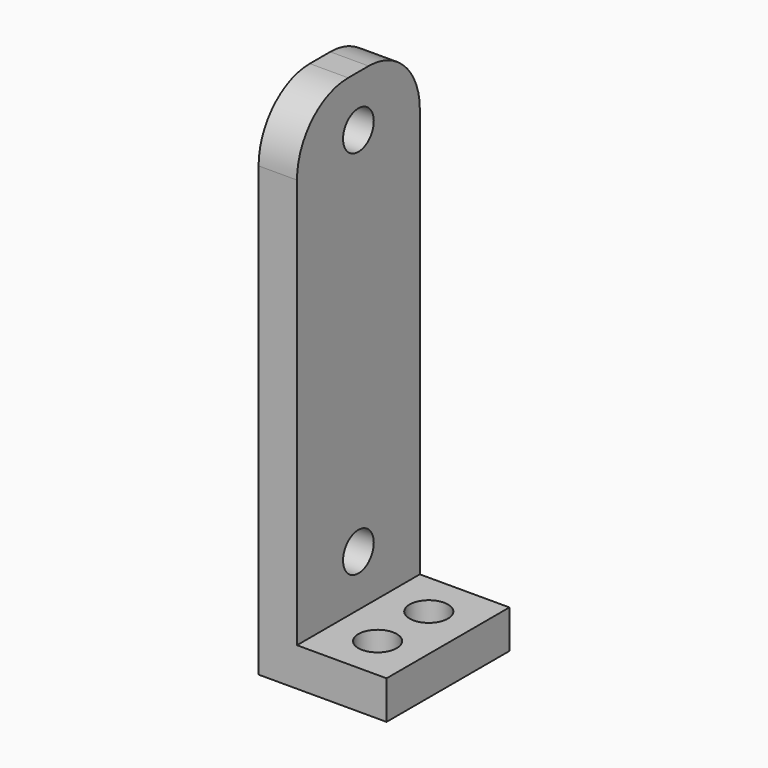
from build123d import *

# Parameters (mm, degrees)
CYLINDER003_R           = 1.5
CYLINDER003_DEPTH       = 10
CYLINDER003_PITCH_ANGLE = 90
CYLINDER002_R           = 1.5
CYLINDER002_DEPTH       = 10
CYLINDER002_PITCH_ANGLE = 90
BOX001_W                = 3
BOX001_H                = 12
BOX001_DEPTH            = 40
FILLET_R                = 5
CYLINDER001_R           = 1.5
CYLINDER001_DEPTH       = 10
CYLINDER_R              = 1.5
CYLINDER_DEPTH          = 10
BOX_W                   = 10
BOX_H                   = 12
BOX_DEPTH               = 3


with BuildPart() as cylinder003:
    # Cylinder003 → Cylinder003 (new body)
    with BuildSketch(Plane.XY):
        Circle(CYLINDER003_R)
    extrude(amount=CYLINDER003_DEPTH)


with BuildPart() as cylinder003_1:
    # Cylinder003 pitch: moved
    add(cylinder003.part.rotate(Axis((0, 0, 0), (0, 1, 0)), CYLINDER003_PITCH_ANGLE))


with BuildPart() as cylinder003_2:
    # Cylinder003 placement: moved
    add(cylinder003_1.part.moved(Location((0, 6, 36))))


with BuildPart() as cylinder002:
    # Cylinder002 → Cylinder002 (new body)
    with BuildSketch(Plane.XY):
        Circle(CYLINDER002_R)
    extrude(amount=CYLINDER002_DEPTH)


with BuildPart() as cylinder002_1:
    # Cylinder002 pitch: moved
    add(cylinder002.part.rotate(Axis((0, 0, 0), (0, 1, 0)), CYLINDER002_PITCH_ANGLE))


with BuildPart() as cylinder002_2:
    # Cylinder002 placement: moved
    add(cylinder002_1.part.moved(Location((0, 6, 7))))


with BuildPart() as cut003:
    # Box001 → Box001 (new body)
    with BuildSketch(Plane.XY):
        with Locations((1.5, 6)):
            Rectangle(BOX001_W, BOX001_H)
    extrude(amount=BOX001_DEPTH)

    # Fillet
    fillet_edges = [cut003.edges().sort_by_distance(p)[0] for p in [
        (1.5, 0, 40),
        (1.5, 12, 40),
    ]]
    fillet(fillet_edges, radius=FILLET_R)

    # Cut002: cut Cylinder002
    add(cylinder002_2.part, mode=Mode.SUBTRACT)

    # Cut003: cut Cylinder003
    add(cylinder003_2.part, mode=Mode.SUBTRACT)


with BuildPart() as cylinder001:
    # Cylinder001 → Cylinder001 (new body)
    with BuildSketch(Plane(origin=(6.5, 8.5, 0), x_dir=(1, 0, 0), z_dir=(0, 0, 1))):
        Circle(CYLINDER001_R)
    extrude(amount=CYLINDER001_DEPTH)


with BuildPart() as cylinder:
    # Cylinder → Cylinder (new body)
    with BuildSketch(Plane(origin=(6.5, 3.5, 0), x_dir=(1, 0, 0), z_dir=(0, 0, 1))):
        Circle(CYLINDER_R)
    extrude(amount=CYLINDER_DEPTH)


with BuildPart() as fusion:
    # Box → Box (new body)
    with BuildSketch(Plane.XY):
        with Locations((5, 6)):
            Rectangle(BOX_W, BOX_H)
    extrude(amount=BOX_DEPTH)

    # Cut: cut Cylinder
    add(cylinder.part, mode=Mode.SUBTRACT)

    # Cut001: cut Cylinder001
    add(cylinder001.part, mode=Mode.SUBTRACT)

    # Fusion: union Cut003
    add(cut003.part)


solid = fusion.part
